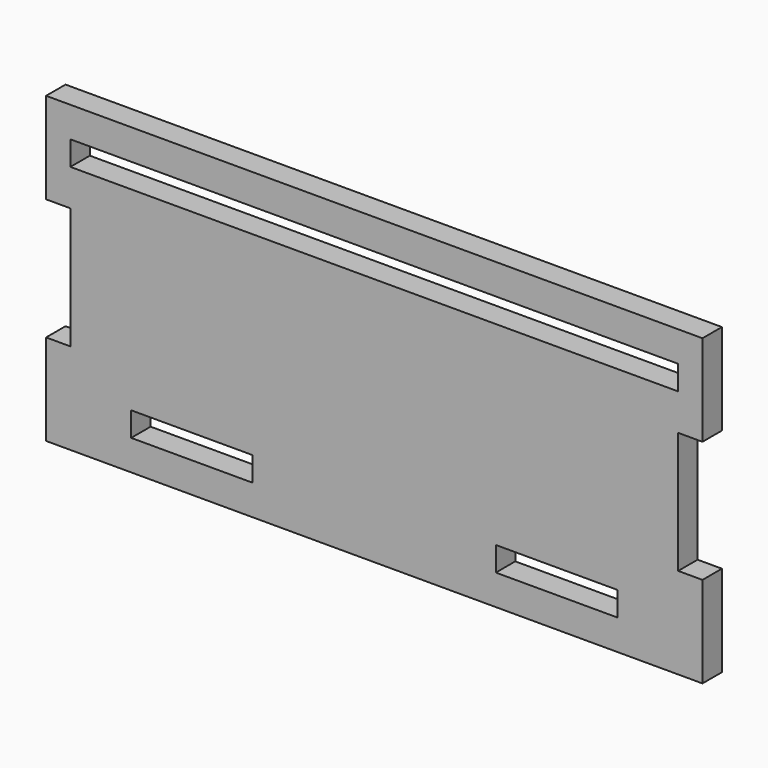
from build123d import *

# Parameters (mm, degrees)
F0_W     = 20
F0_H     = 4
F0_W_2   = 100
F1_DEPTH = 4


with BuildPart() as f1:
    # F0 (on Front) → F1 (new body)
    with BuildSketch(Plane.XZ):
        Polygon((54, 10), (54, 25), (-54, 25), (-54, 10), (-50, 10), (-50, -10), (-54, -10), (-54, -25), (54, -25), (54, -10), (50, -10), (50, 10), align=None)
        with Locations((-30, -18)):
            Rectangle(F0_W, F0_H, mode=Mode.SUBTRACT)
        with Locations((30, -18)):
            Rectangle(F0_W, F0_H, mode=Mode.SUBTRACT)
        with Locations((0, 18)):
            Rectangle(F0_W_2, F0_H, mode=Mode.SUBTRACT)
    extrude(amount=F1_DEPTH)


solid = f1.part
